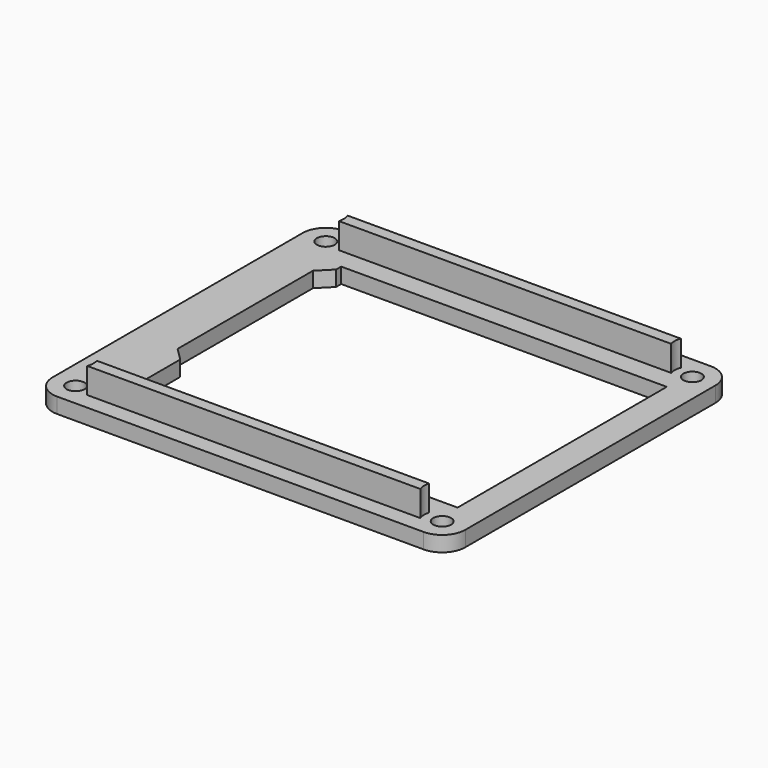
from build123d import *

# Parameters (mm, degrees)
SKETCH_W        = 80.5
SKETCH_H        = 70
PAD_DEPTH       = 3
FILLET_R        = 4.5
SKETCH001_R     = 1.75
POCKET_DEPTH    = 3.001
PAD001_DEPTH    = 5
POCKET001_DEPTH = 3.001


with BuildPart() as part:
    # Sketch → Pad (new body)
    with BuildSketch(Plane.XY):
        Rectangle(SKETCH_W, SKETCH_H)
    extrude(amount=PAD_DEPTH)

    # Fillet
    fillet_edges = [part.edges().sort_by_distance(p)[0] for p in [
        (-40.25, -35, 1.5),
        (40.25, -35, 1.5),
        (40.25, 35, 1.5),
        (-40.25, 35, 1.5),
    ]]
    fillet(fillet_edges, radius=FILLET_R)

    # Sketch001 (on Face5 of Fillet) → Pocket (cut, through all)
    with BuildSketch(Plane.XY.offset(3)):
        with Locations((-35.75, 30.5)):
            Circle(SKETCH001_R)
        with Locations((35.75, 30.5)):
            Circle(SKETCH001_R)
        with Locations((-35.75, -30.5)):
            Circle(SKETCH001_R)
        with Locations((35.75, -30.5)):
            Circle(SKETCH001_R)
    extrude(amount=-POCKET_DEPTH, mode=Mode.SUBTRACT)

    # Sketch002 (on Face5 of Pocket) → Pad001 (join)
    with BuildSketch(Plane.XY.offset(3)):
        with BuildLine():
            Line((-32.480826, -31.75), (32.480826, -31.75))
            ThreePointArc((32.395898, -29.5), (32.252491, -30.632016), (32.480826, -31.75))
            Line((-32.395898, -29.5), (32.395898, -29.5))
            ThreePointArc((-32.480826, -31.75), (-32.253104, -30.631993), (-32.395898, -29.5))
        make_face()
    pad001 = extrude(amount=PAD001_DEPTH)

    # Mirrored: Pad001 across XZ
    add(pad001.mirror(Plane.XZ))

    # Sketch003 (on Face5 of Mirrored) → Pocket001 (cut, through all)
    with BuildSketch(Plane.XY.offset(3)):
        Polygon((34.75, 25.5), (34.75, -25.5), (-28.75, -25.5), (-28.75, -13.75), (-31.25, -11.25), (-31.25, 21.75), (-28.75, 24.25), (-28.75, 25.5), align=None)
    extrude(amount=-POCKET001_DEPTH, mode=Mode.SUBTRACT)


solid = part.part
